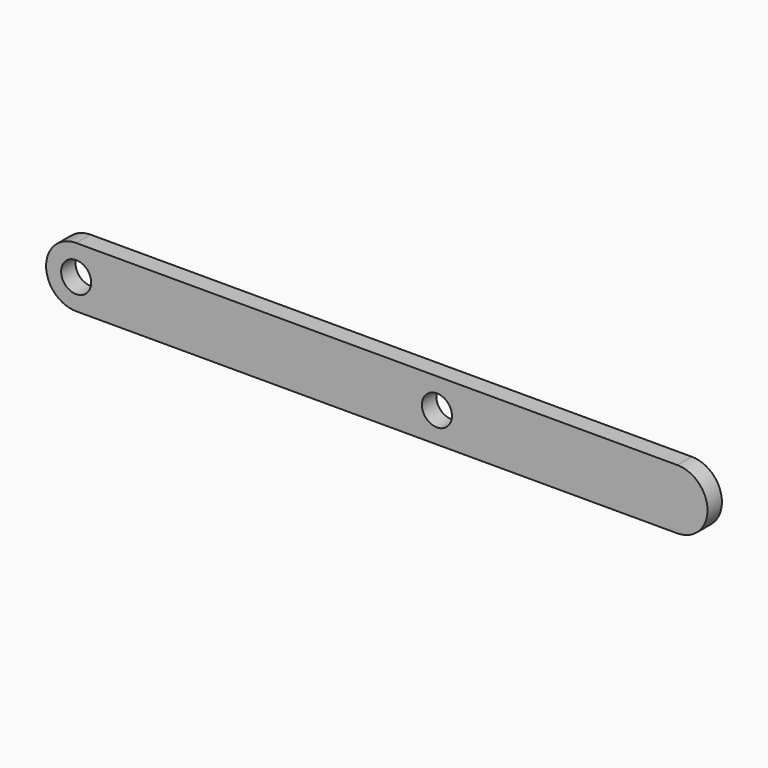
from build123d import *

# Parameters (mm, degrees)
F1_DEPTH = 3.81
F2_R     = 3.175
F3_DEPTH = 25.4


with BuildPart() as f1:
    # F0 (on Front) → F1 (new body)
    with BuildSketch(Plane.XZ):
        with BuildLine():
            Line((51.703557, 0), (-75.296443, 0))
            ThreePointArc((-75.296443, 0), (-81.646443, -6.35), (-75.296443, -12.7))
            Line((-75.296443, -12.7), (51.703557, -12.7))
            ThreePointArc((51.703557, -12.7), (58.053557, -6.35), (51.703557, 0))
        make_face()
    extrude(amount=F1_DEPTH)

    # F2 (on face) → F3 (cut)
    with BuildSketch(Plane.XZ.offset(3.81)):
        with Locations((-75.296443, -6.35)):
            Circle(F2_R)
        with Locations((0.903557, -6.35)):
            Circle(F2_R)
    extrude(amount=-F3_DEPTH, mode=Mode.SUBTRACT)


solid = f1.part
